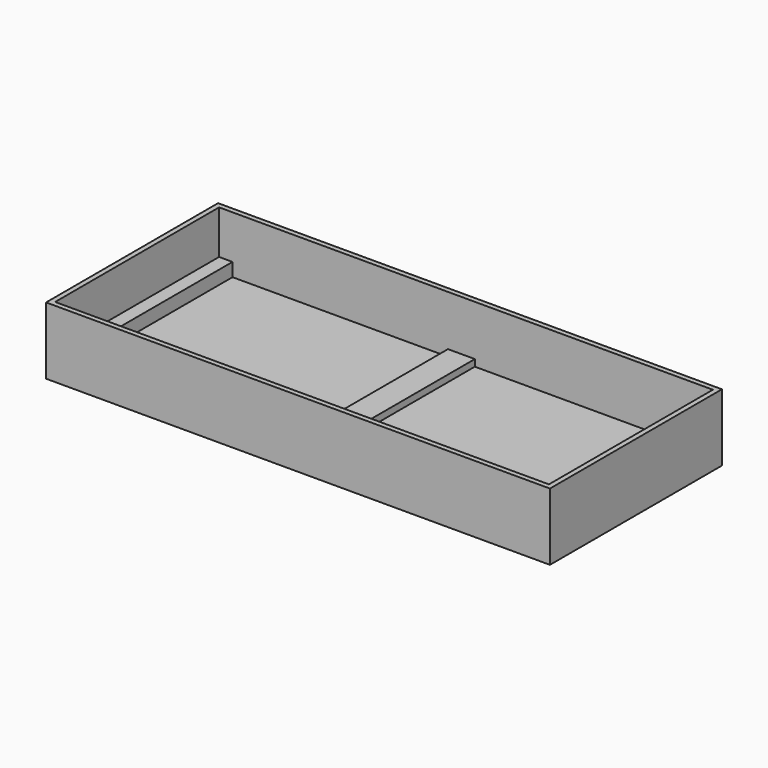
from build123d import *

# Parameters (mm, degrees)
F0_W     = 1905
F0_H     = 254
F1_DEPTH = 406.4
F2_W     = 1866.9
F2_H     = 774.7
F3_DEPTH = 215.9
F4_W     = 50.8
F4_H     = 774.7
F5_DEPTH = 50.8
F6_W     = 101.6
F6_H     = 774.7
F7_DEPTH = 25.4


with BuildPart() as f1:
    # F0 (on Front) → F1 (new body, symmetric)
    with BuildSketch(Plane.XZ):
        with Locations((17.253051, 1.14385)):
            Rectangle(F0_W, F0_H)
    extrude(amount=F1_DEPTH, both=True)

    # F2 (on face) → F3 (cut)
    with BuildSketch(Plane.XY.offset(128.14385)):
        with Locations((17.253051, 0)):
            Rectangle(F2_W, F2_H)
    extrude(amount=-F3_DEPTH, mode=Mode.SUBTRACT)

    # F4 (on face) → F5 (join)
    with BuildSketch(Plane.XY.offset(-87.75615)):
        with Locations((-890.796949, 0)):
            Rectangle(F4_W, F4_H)
        with Locations((925.303051, 0)):
            Rectangle(F4_W, F4_H)
    extrude(amount=F5_DEPTH)

    # F6 (on face) → F7 (join)
    with BuildSketch(Plane.XY.offset(-87.75615)):
        Rectangle(F6_W, F6_H)
    extrude(amount=F7_DEPTH)


solid = f1.part
